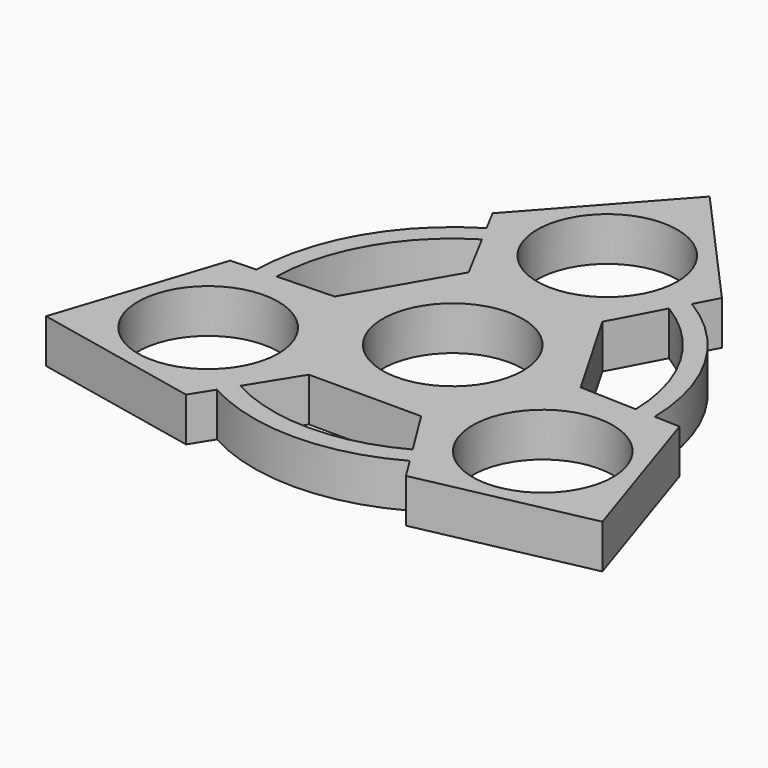
from build123d import *

# Parameters (mm, degrees)
F0_R     = 11.10107
F1_DEPTH = 6.9342
F3_DEPTH = 6.9342


with BuildPart() as f1:
    # F0 (on Top) → F1 (new body)
    with BuildSketch(Plane.XY):
        Polygon((18.1369372315, 30.5542092799), (0, 50.8), (-18.1369372315, 30.5542092799), (-10.5741708498, 16.3638919404), (-19.4586315501, 0.9755546097), (-35.5291900447, 0.4299437494), (-43.9940905122, -25.4), (-17.3922528132, -30.9841530293), (-8.8844607003, -17.3394465501), (8.8844607003, -17.3394465501), (17.3922528132, -30.9841530293), (43.9940905122, -25.4), (35.5291900447, 0.4299437494), (19.4586315501, 0.9755546097), (10.5741708498, 16.3638919404), align=None)
        with Locations((-26.4607214289, -15.27710464)):
            Circle(F0_R, mode=Mode.SUBTRACT)
        with Locations((26.4607214289, -15.27710464)):
            Circle(F0_R, mode=Mode.SUBTRACT)
        Circle(F0_R, mode=Mode.SUBTRACT)
        with Locations((0, 30.5542092799)):
            Circle(F0_R, mode=Mode.SUBTRACT)
    extrude(amount=F1_DEPTH)

    # F2 (on face) → F3 (join)
    with BuildSketch(Plane.XY.offset(6.9342)):
        with BuildLine():
            Line((15.2522996768, -27.5521189554), (13.6293113813, -24.9491875935))
            ThreePointArc((13.6293113813, -24.9491875935), (0, -28.4292119185), (-13.6293113813, -24.9491875935))
            Line((-13.6293113813, -24.9491875935), (-15.2522996768, -27.5521189554))
            ThreePointArc((-15.2522996768, -27.5521189554), (0, -31.4920927276), (15.2522996768, -27.5521189554))
        make_face()
        with BuildLine():
            ThreePointArc((14.7919745691, 24.2779236891), (24.620419731, 14.2146059592), (28.4212859504, 0.6712639045))
            Line((28.4212859504, 0.6712639045), (31.4869847819, 0.5671804915))
            ThreePointArc((31.4869847819, 0.5671804915), (27.2729523205, 15.7460463638), (16.2346851051, 26.984938464))
            Line((16.2346851051, 26.984938464), (14.7919745691, 24.2779236891))
        make_face()
        with BuildLine():
            ThreePointArc((-28.4212859504, 0.6712639045), (-24.620419731, 14.2146059592), (-14.7919745691, 24.2779236891))
            Line((-14.7919745691, 24.2779236891), (-16.2346851051, 26.984938464))
            ThreePointArc((-16.2346851051, 26.984938464), (-27.2729523205, 15.7460463638), (-31.4869847819, 0.5671804915))
            Line((-31.4869847819, 0.5671804915), (-28.4212859504, 0.6712639045))
        make_face()
    extrude(amount=-F3_DEPTH)


solid = f1.part
